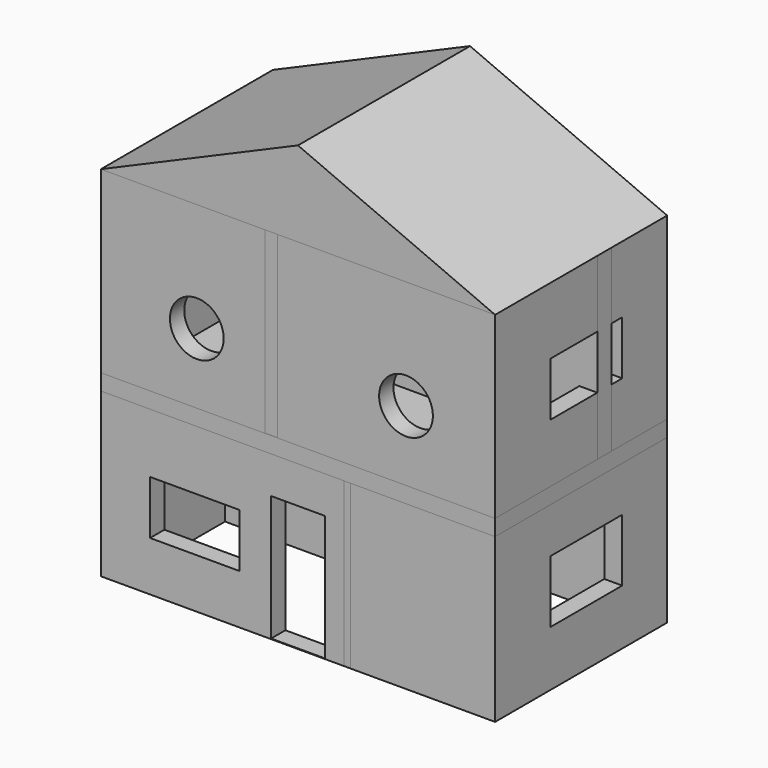
from build123d import *

# Parameters (mm, degrees)
F0_W      = 55.88
F0_H      = 30.48
F0_W_2    = 50.8
F0_H_2    = 25.4
F1_DEPTH  = 50.8
F4_DEPTH  = 55.88
F3_W      = 1.2348946184
F3_H      = 23.1199190021
F5_DEPTH  = 34.5059
F2_W      = 0.8848570287
F2_H      = 23.1127515435
F6_DEPTH  = 20.066
F2_W_2    = 1.778
F2_H_2    = 25.3409488678
F2_R      = 3.81
F2_W_3    = 7.62
F2_H_3    = 17.78
F2_W_4    = 12.7
F2_H_4    = 7.62
F7_DEPTH  = 12.7
F8_DEPTH  = 30.48
F3_W_2    = 2.54
F3_H_2    = 25.4
F9_DEPTH  = 55.88
F10_W     = 7.62
F10_H     = 17.78
F10_H_2   = 15.24
F11_DEPTH = 3.81
F12_W     = 12.7
F12_H     = 7.62
F12_H_2   = 8.8426265866
F13_DEPTH = 3.048
F14_W     = 17.78
F14_H     = 12.7
F14_W_2   = 22.86
F14_H_2   = 17.7792217582
F15_DEPTH = 5.08


with BuildPart() as f1:
    # F0 (on Top) → F1 (new body)
    with BuildSketch(Plane.XY):
        with Locations((-39.1244925559, 24.5484983528)):
            Rectangle(F0_W, F0_H)
        with Locations((-39.1244925559, 24.5484983528)):
            Rectangle(F0_W_2, F0_H_2, mode=Mode.SUBTRACT)
    extrude(amount=F1_DEPTH)

    # F2 (on face) → F7 (cut)
    with BuildSketch(Plane.XZ.offset(-9.3084983528)):
        with Locations((-53.4664802253, 35.3280678391)):
            Circle(F2_R)
        with Locations((-23.8133892417, 35.3280678391)):
            Circle(F2_R)
        with Locations((-39.1244925559, 8.9734215289)):
            Rectangle(F2_W_3, F2_H_3)
        with Locations((-53.7414518952, 10.8576564579)):
            Rectangle(F2_W_4, F2_H_4)
    extrude(amount=-F7_DEPTH, mode=Mode.SUBTRACT)

    # F12 (on face) → F13 (cut)
    with BuildSketch(Plane.YZ.offset(-11.1844925559)):
        with Locations((25.4817003548, 37.5306944823)):
            Rectangle(F12_W, F12_H)
        with Locations((25.4817003548, 12.277324684)):
            Rectangle(F12_W, F12_H_2)
    extrude(amount=-F13_DEPTH, mode=Mode.SUBTRACT)

    # F14 (on face) → F15 (cut)
    with BuildSketch(Plane(origin=(0, 39.7884983528, 0), x_dir=(-1, 0, 0), z_dir=(0, 1, 0))):
        with Locations((26.9698910415, 37.2866503894)):
            Rectangle(F14_W, F14_H)
        with Locations((54.6161755919, 37.2866503894)):
            Rectangle(F14_W, F14_H)
        with Locations((39.0458321649, 8.8896108791)):
            Rectangle(F14_W_2, F14_H_2)
    extrude(amount=-F15_DEPTH, mode=Mode.SUBTRACT)


with BuildPart() as f4:
    # F3 (on face) → F4 (new body)
    with BuildSketch(Plane(origin=(-67.0644925559, 0, 0), x_dir=(0, -1, 0), z_dir=(-1, 0, 0))):
        Polygon((-29.9556218088, 25.4), (-39.7884983528, 25.4), (-39.7884983528, 23.1199190021), (-29.3668583035, 23.1199190021), (-28.1319636852, 23.1199190021), (-9.3084983528, 23.1199190021), (-9.3084983528, 25.4), (-27.4156218088, 25.4), align=None)
    extrude(amount=-F4_DEPTH)


with BuildPart() as f5:
    # F3 (on face) → F5 (new body)
    with BuildSketch(Plane(origin=(-67.0644925559, 0, 0), x_dir=(0, -1, 0), z_dir=(-1, 0, 0))):
        with Locations((-28.7494109944, 11.559959501)):
            Rectangle(F3_W, F3_H)
    extrude(amount=-F5_DEPTH)


with BuildPart() as f6:
    # F2 (on face) → F6 (new body)
    with BuildSketch(Plane.XZ.offset(-9.3084983528)):
        with Locations((-32.1580264717, 11.5563757718)):
            Rectangle(F2_W, F2_H)
    extrude(amount=-F6_DEPTH)


with BuildPart() as f6b:
    # F2 (on face) → F6, piece 2 (new body)
    with BuildSketch(Plane.XZ.offset(-9.3084983528)):
        with Locations((-42.9128897204, 38.1295255661)):
            Rectangle(F2_W_2, F2_H_2)
    extrude(amount=-F6_DEPTH)


with BuildPart() as f8:
    # F2 (on face) → F8 (new body)
    with BuildSketch(Plane.XZ.offset(-9.3084983528)):
        Polygon((-39.1244925559, 62.8553926945), (-67.0644925559, 50.8), (-43.8018897204, 50.8), (-42.0238897204, 50.8), (-11.1844925559, 50.8), align=None)
    extrude(amount=-F8_DEPTH)


with BuildPart() as f9:
    # F3 (on face) → F9 (new body)
    with BuildSketch(Plane(origin=(-67.0644925559, 0, 0), x_dir=(0, -1, 0), z_dir=(-1, 0, 0))):
        with Locations((-28.6856218088, 38.1)):
            Rectangle(F3_W_2, F3_H_2)
    extrude(amount=-F9_DEPTH)


with BuildPart() as f11_tool:
    # F10 (on face) → F11 (new body, symmetric)
    with BuildSketch(Plane(origin=(0, 29.3668583035, 0), x_dir=(-1, 0, 0), z_dir=(0, 1, 0))):
        with Locations((38.6974405026, 8.89)):
            Rectangle(F10_W, F10_H)
        with Locations((31.0774405026, 33.3521316749)):
            Rectangle(F10_W, F10_H_2)
        with Locations((53.664926765, 33.3521316749)):
            Rectangle(F10_W, F10_H_2)
    extrude(amount=F11_DEPTH, both=True)


with BuildPart() as f5_1:
    add(f5.part)

    # F11: cut by f11_tool
    add(f11_tool.part, mode=Mode.SUBTRACT)


with BuildPart() as f9_1:
    add(f9.part)

    # F11: cut by f11_tool
    add(f11_tool.part, mode=Mode.SUBTRACT)


solid = Compound([f1.part, f4.part, f6.part, f6b.part, f8.part, f5_1.part, f9_1.part])
